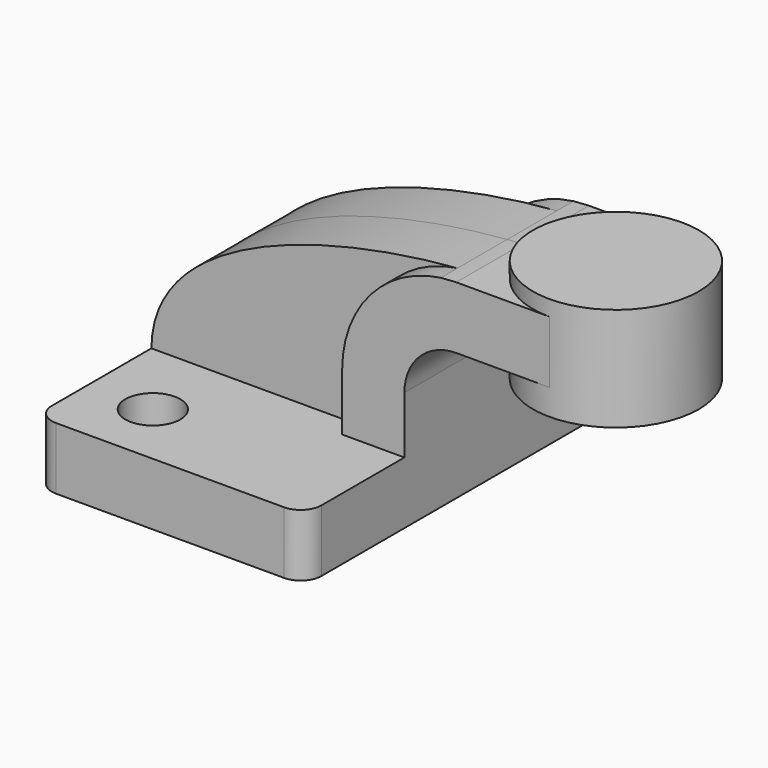
from build123d import *

# Parameters (mm, degrees)
F1_DEPTH = 63.5
F0_W     = 25.4
F0_H     = 19.05
F2_DEPTH = 25.4
F4_DEPTH = 19.05
F5_R     = 6.35
F6_R     = 8.4119474029
F7_DEPTH = 19.051


with BuildPart() as f1:
    # F0 (on Front) → F1 (new body, symmetric)
    with BuildSketch(Plane.XZ):
        Polygon((-41.275, -9.525), (41.275, -9.525), (41.275, 9.525), (22.225, 9.525), (-41.275, 9.525), align=None)
    extrude(amount=F1_DEPTH, both=True)

    # F0 (on Front) → F2 (join, symmetric)
    with BuildSketch(Plane.XZ):
        with BuildLine():
            Line((22.225, 9.525), (41.275, 9.525))
            Line((41.275, 9.525), (41.275, 27.0002))
            ThreePointArc((41.275, 27.0002), (45.9246798487, 38.2255201513), (57.15, 42.8752))
            Line((57.15, 42.8752), (60.325, 42.8752))
            Line((60.325, 42.8752), (60.325, 61.9252))
            Line((60.325, 61.9252), (57.15, 61.9252))
            add(Edge.make_bspline(
                [(52.4539686953, 61.608044703), (54.0535682544, 61.7343536361), (55.620779482, 61.8398573918), (57.15, 61.9252)],
                knots=[106.9681475328, 106.9681475328, 106.9681475328, 106.9681475328, 111.5045361635, 111.5045361635, 111.5045361635, 111.5045361635], degree=3))
            ThreePointArc((52.4539686953, 61.608044703), (30.8463451369, 49.9756948987), (22.225, 27.0002))
            Line((22.225, 27.0002), (22.225, 9.525))
        make_face()
        with Locations((73.025, 52.4002)):
            Rectangle(F0_W, F0_H)
    extrude(amount=F2_DEPTH, both=True)

    # F0 (on Front) → F3 (revolve)
    with BuildSketch(Plane.XZ):
        Polygon((85.725, 61.9252), (85.725, 42.8752), (85.725, 34.925), (111.125, 34.925), (111.125, 66.675), (85.725, 66.675), align=None)
    revolve(axis=Axis((85.725, 0, 50.8), (0, 0, 1)))

    # F0 (on Front) → F4 (join, symmetric)
    with BuildSketch(Plane.XZ):
        with BuildLine():
            add(Edge.make_bspline(
                [(-41.275, 9.525), (-40.9916978958, 44.0832673995), (14.7353745544, 58.6296771756), (52.4539686953, 61.608044703)],
                knots=[0, 0, 0, 0, 106.9681475328, 106.9681475328, 106.9681475328, 106.9681475328], degree=3))
            Line((-41.275, 9.525), (22.225, 9.525))
            Line((22.225, 9.525), (22.225, 27.0002))
            ThreePointArc((22.225, 27.0002), (30.8463451369, 49.9756948987), (52.4539686953, 61.608044703))
        make_face()
    extrude(amount=F4_DEPTH, both=True)

    # F5
    f5_edges = [f1.edges().sort_by_distance(p)[0] for p in [
        (41.275, -63.5, 0),
        (-41.275, -63.5, 0),
        (41.275, 63.5, 0),
        (-41.275, 63.5, 0),
    ]]
    fillet(f5_edges, radius=F5_R)

    # F6 (on face) → F7 (cut, through all)
    with BuildSketch(Plane.XY.offset(9.525)):
        with Locations((-21.275, -43.5)):
            Circle(F6_R)
    extrude(amount=-F7_DEPTH, mode=Mode.SUBTRACT)


solid = f1.part
